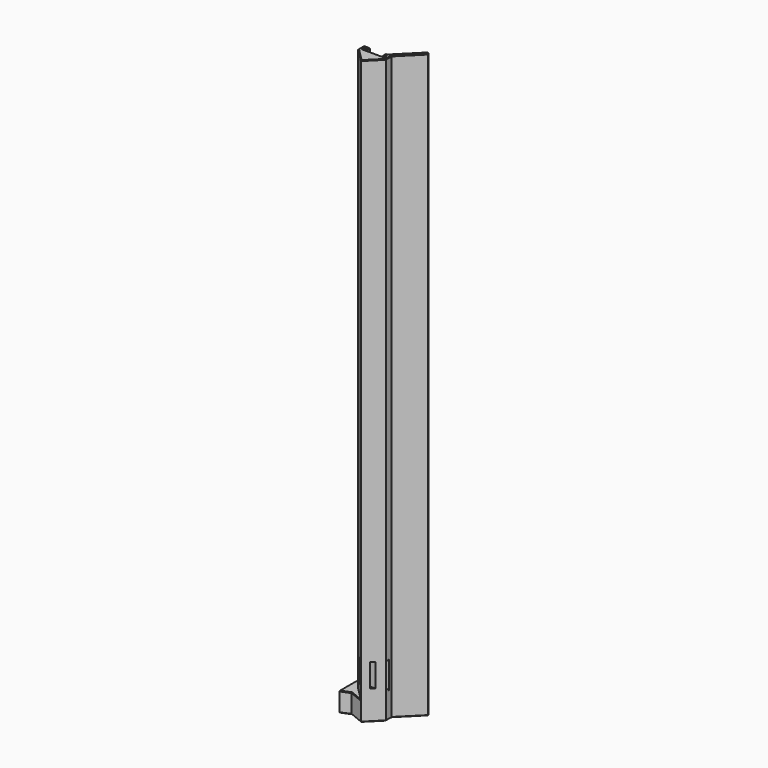
from build123d import *

# Parameters (mm, degrees)
PAD006_DEPTH            = 300
PAD007_DEPTH            = 10
PAD010_DEPTH            = 10
POCKET001_DEPTH         = 27.5
PAD016_DEPTH            = 300
CHAMFER007_SIZE         = 0.3
CHAMFER008_SIZE         = 0.3
SKETCH018_W             = 1.5
SKETCH018_H             = 12
POCKET002_DEPTH         = 19.201
SKETCH025_W             = 1
SKETCH025_H             = 11
POCKET005_DEPTH         = 0.5
BODY002_PLACEMENT_ANGLE = 90


with BuildPart() as part:
    # Sketch008 → Pad006 (new body)
    with BuildSketch(Plane.XY):
        Polygon((3.8, 3.1), (3.8, 0), (0, 0), (-7.1, 7.1), (0, 14.2), (3.8, 14.2), (3.8, 11.1), (2.2, 11.1), (2.2, 12.6), (1, 12.6), (1, 1.6), (2.2, 1.6), (2.2, 3.1), align=None)
    extrude(amount=PAD006_DEPTH)

    # Sketch010 → Pad007 (join)
    with BuildSketch(Plane(origin=(0, 0, 0), x_dir=(-1, 0, 0), z_dir=(0, 0, -1))):
        Polygon((-3.8, 14.2), (-5.8, 19.2), (6.2, 19.2), (4.2, 14.2), align=None)
    extrude(amount=-PAD007_DEPTH)

    # Sketch013 → Pad010 (join)
    with BuildSketch(Plane(origin=(0, 0, 0), x_dir=(-1, 0, 0), z_dir=(0, 0, -1))):
        Polygon((4.2, 14.2), (7.1, 7.1), (0, 14.2), align=None)
    extrude(amount=-PAD010_DEPTH)

    # Sketch014 (on DatumPlane) → Pocket001 (cut, symmetric)
    with BuildSketch(Plane.XY.offset(150)):
        Polygon((0, 12.785786), (-5.685786, 7.1), (0, 1.414214), align=None)
    extrude(amount=POCKET001_DEPTH, both=True, mode=Mode.SUBTRACT)

    # Sketch021 → Pad016 (join)
    with BuildSketch(Plane.XY):
        Polygon((3.8, 0), (14.406602, -10.606602), (15.537973, -9.475231), (3.8, 2.262742), align=None)
    extrude(amount=PAD016_DEPTH)

    # Chamfer007
    chamfer007_edges = [part.edges().sort_by_distance(p)[0] for p in [
        (-5.2, 16.7, 0),
        (-5.65, 10.65, 0),
        (-3.55, 3.55, 0),
        (9.103301, -5.303301, 0),
        (9.103301, -5.303301, 300),
        (2.2, 2.35, 0),
        (14.972287, -10.040916, 0),
        (14.972287, -10.040916, 300),
        (1, 7.1, 0),
        (-0.2, 19.2, 0),
        (1.9, 0, 0),
        (1.6, 1.6, 0),
        (1.6, 12.6, 0),
        (2.2, 11.85, 0),
        (1.9, 0, 300),
        (-3.55, 3.55, 300),
        (-3.55, 10.65, 300),
        (1.9, 14.2, 300),
        (2.2, 2.35, 300),
        (1.6, 1.6, 300),
        (1, 7.1, 300),
        (1.6, 12.6, 300),
        (2.2, 11.85, 300),
        (14.406602, -10.606602, 150),
        (15.537973, -9.475231, 150),
        (3, 11.1, 0),
        (3.8, 12.65, 0),
        (4.8, 16.7, 0),
        (9.668986, -3.606245, 0),
        (3.8, 2.681371, 0),
        (3, 3.1, 0),
        (9.668986, -3.606245, 300),
        (3.8, 12.65, 300),
        (3.8, 2.681371, 300),
        (3, 3.1, 300),
        (3, 11.1, 300),
    ]]
    chamfer(chamfer007_edges, length=CHAMFER007_SIZE)

    # Chamfer008
    chamfer008_edges = [part.edges().sort_by_distance(p)[0] for p in [
        (-6.2, 19.2, 5.15),
        (5.8, 19.2, 5.15),
        (-5.65, 10.65, 10),
        (-5.2, 16.7, 10),
        (-0.2, 19.2, 10),
        (4.8, 16.7, 10),
    ]]
    chamfer(chamfer008_edges, length=CHAMFER008_SIZE)

    # Sketch018 (on Face32 of Chamfer008) → Pocket002 (cut, through all)
    with BuildSketch(Plane.XZ):
        with Locations((-3.75, 21)):
            Rectangle(SKETCH018_W, SKETCH018_H)
        Polygon((0, 15), (0, 27), (2.2, 27), (2.2, 15), (2.2, 12.8), align=None)
    extrude(amount=-POCKET002_DEPTH, mode=Mode.SUBTRACT)

    # Sketch025 (on Face57 of Pocket002) → Pocket005 (cut)
    with BuildSketch(Plane(origin=(0, 0, 27), x_dir=(1, 0, 0), z_dir=(0, 0, -1))):
        with Locations((0.5, -7.1)):
            Rectangle(SKETCH025_W, SKETCH025_H)
    extrude(amount=-POCKET005_DEPTH, mode=Mode.SUBTRACT)


with BuildPart() as part_1:
    # Body002 placement: moved
    add(part.part.moved(Location((53, 0.8, 0))).rotate(Axis((53, 0.8, 0), (0, 0, 1)), BODY002_PLACEMENT_ANGLE))


solid = part_1.part
